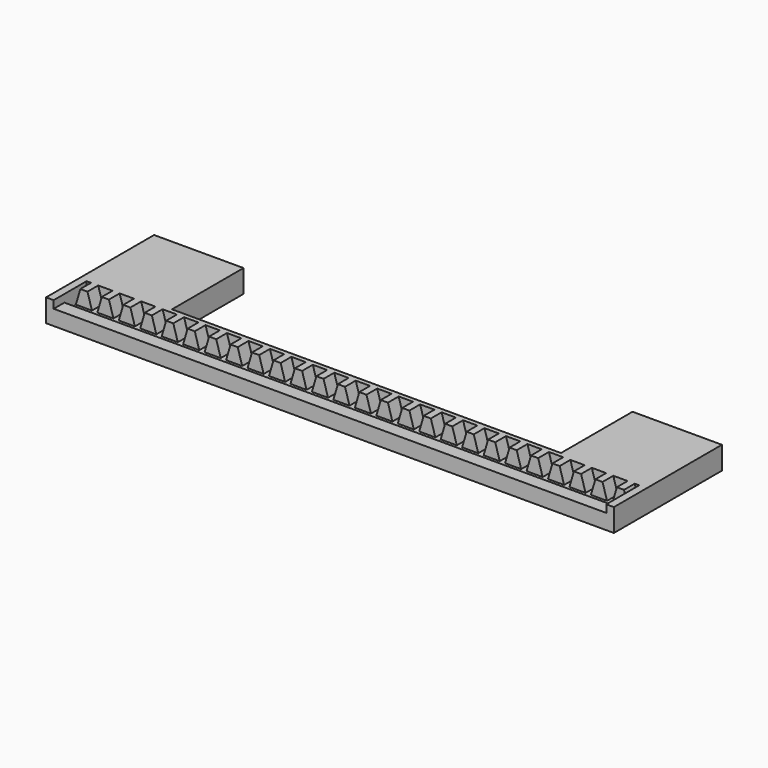
from build123d import *

# Parameters (mm, degrees)
F1_DEPTH  = 3.81
F5_DEPTH  = 156.972
F7_DEPTH  = 1.27
F9_W      = 12.954
F9_H      = 2.159
F9_H_2    = 4.318
F10_DEPTH = 2.159
F11_W     = 12.954
F11_H     = 4.318
F11_H_2   = 2.159
F12_DEPTH = 2.159
F13_W     = 25.4
F13_H     = 6.477
F14_DEPTH = 25.4


with BuildPart() as f1:
    # F0 (on Front) → F1 (new body)
    with BuildSketch(Plane.XZ):
        Polygon((-37.1748663006, 21.2125933835), (-38.4448663006, 16.8945933835), (-33.8728663006, 16.8945933835), (-35.1428663006, 21.2125933835), align=None)
        Polygon((-33.8728663006, 16.8945933835), (-38.4448663006, 16.8945933835), (-38.4448663006, 14.7355933835), (118.5271336994, 14.7355933835), (118.5271336994, 16.8945933835), (113.9551336994, 16.8945933835), (112.4311336994, 16.8945933835), (107.8591336994, 16.8945933835), (106.3351336994, 16.8945933835), (101.7631336994, 16.8945933835), (100.2391336994, 16.8945933835), (95.6671336994, 16.8945933835), (94.1431336994, 16.8945933835), (89.5711336994, 16.8945933835), (88.0471336994, 16.8945933835), (83.4751336994, 16.8945933835), (81.9511336994, 16.8945933835), (77.3791336994, 16.8945933835), (75.8551336994, 16.8945933835), (71.2831336994, 16.8945933835), (69.7591336994, 16.8945933835), (65.1871336994, 16.8945933835), (63.6631336994, 16.8945933835), (59.0911336994, 16.8945933835), (57.5671336994, 16.8945933835), (52.9951336994, 16.8945933835), (51.4711336994, 16.8945933835), (46.8991336994, 16.8945933835), (45.3751336994, 16.8945933835), (40.8031336994, 16.8945933835), (39.2791336994, 16.8945933835), (34.7071336994, 16.8945933835), (33.1831336994, 16.8945933835), (28.6111336994, 16.8945933835), (27.0871336994, 16.8945933835), (22.5151336994, 16.8945933835), (20.9911336994, 16.8945933835), (16.4191336994, 16.8945933835), (14.8951336994, 16.8945933835), (10.3231336994, 16.8945933835), (8.7991336994, 16.8945933835), (4.2271336994, 16.8945933835), (2.7031336994, 16.8945933835), (-1.8688663006, 16.8945933835), (-3.3928663006, 16.8945933835), (-7.9648663006, 16.8945933835), (-9.4888663006, 16.8945933835), (-14.0608663006, 16.8945933835), (-15.5848663006, 16.8945933835), (-20.1568663006, 16.8945933835), (-21.6808663006, 16.8945933835), (-26.2528663006, 16.8945933835), (-27.7768663006, 16.8945933835), (-32.3488663006, 16.8945933835), align=None)
        Polygon((-31.0788663006, 21.2125933835), (-32.3488663006, 16.8945933835), (-27.7768663006, 16.8945933835), (-29.0468663006, 21.2125933835), align=None)
        Polygon((113.9551336994, 16.8945933835), (118.5271336994, 16.8945933835), (117.2571336994, 21.2125933835), (115.2251336994, 21.2125933835), align=None)
        Polygon((-24.9828663006, 21.2125933835), (-26.2528663006, 16.8945933835), (-21.6808663006, 16.8945933835), (-22.9508663006, 21.2125933835), align=None)
        Polygon((107.8591336994, 16.8945933835), (112.4311336994, 16.8945933835), (111.1611336994, 21.2125933835), (109.1291336994, 21.2125933835), align=None)
        Polygon((-18.8868663006, 21.2125933835), (-20.1568663006, 16.8945933835), (-15.5848663006, 16.8945933835), (-16.8548663006, 21.2125933835), align=None)
        Polygon((101.7631336994, 16.8945933835), (106.3351336994, 16.8945933835), (105.0651336994, 21.2125933835), (103.0331336994, 21.2125933835), align=None)
        Polygon((-12.7908663006, 21.2125933835), (-14.0608663006, 16.8945933835), (-9.4888663006, 16.8945933835), (-10.7588663006, 21.2125933835), align=None)
        Polygon((95.6671336994, 16.8945933835), (100.2391336994, 16.8945933835), (98.9691336994, 21.2125933835), (96.9371336994, 21.2125933835), align=None)
        Polygon((-6.6948663006, 21.2125933835), (-7.9648663006, 16.8945933835), (-3.3928663006, 16.8945933835), (-4.6628663006, 21.2125933835), align=None)
        Polygon((89.5711336994, 16.8945933835), (94.1431336994, 16.8945933835), (92.8731336994, 21.2125933835), (90.8411336994, 21.2125933835), align=None)
        Polygon((-0.5988663006, 21.2125933835), (-1.8688663006, 16.8945933835), (2.7031336994, 16.8945933835), (1.4331336994, 21.2125933835), align=None)
        Polygon((83.4751336994, 16.8945933835), (88.0471336994, 16.8945933835), (86.7771336994, 21.2125933835), (84.7451336994, 21.2125933835), align=None)
        Polygon((5.4971336994, 21.2125933835), (4.2271336994, 16.8945933835), (8.7991336994, 16.8945933835), (7.5291336994, 21.2125933835), align=None)
        Polygon((77.3791336994, 16.8945933835), (81.9511336994, 16.8945933835), (80.6811336994, 21.2125933835), (78.6491336994, 21.2125933835), align=None)
        Polygon((11.5931336994, 21.2125933835), (10.3231336994, 16.8945933835), (14.8951336994, 16.8945933835), (13.6251336994, 21.2125933835), align=None)
        Polygon((71.2831336994, 16.8945933835), (75.8551336994, 16.8945933835), (74.5851336994, 21.2125933835), (72.5531336994, 21.2125933835), align=None)
        Polygon((17.6891336994, 21.2125933835), (16.4191336994, 16.8945933835), (20.9911336994, 16.8945933835), (19.7211336994, 21.2125933835), align=None)
        Polygon((65.1871336994, 16.8945933835), (69.7591336994, 16.8945933835), (68.4891336994, 21.2125933835), (66.4571336994, 21.2125933835), align=None)
        Polygon((23.7851336994, 21.2125933835), (22.5151336994, 16.8945933835), (27.0871336994, 16.8945933835), (25.8171336994, 21.2125933835), align=None)
        Polygon((59.0911336994, 16.8945933835), (63.6631336994, 16.8945933835), (62.3931336994, 21.2125933835), (60.3611336994, 21.2125933835), align=None)
        Polygon((29.8811336994, 21.2125933835), (28.6111336994, 16.8945933835), (33.1831336994, 16.8945933835), (31.9131336994, 21.2125933835), align=None)
        Polygon((52.9951336994, 16.8945933835), (57.5671336994, 16.8945933835), (56.2971336994, 21.2125933835), (54.2651336994, 21.2125933835), align=None)
        Polygon((35.9771336994, 21.2125933835), (34.7071336994, 16.8945933835), (39.2791336994, 16.8945933835), (38.0091336994, 21.2125933835), align=None)
        Polygon((46.8991336994, 16.8945933835), (51.4711336994, 16.8945933835), (50.2011336994, 21.2125933835), (48.1691336994, 21.2125933835), align=None)
        Polygon((42.0731336994, 21.2125933835), (40.8031336994, 16.8945933835), (45.3751336994, 16.8945933835), (44.1051336994, 21.2125933835), align=None)
    extrude(amount=F1_DEPTH)

    # F4 (on plane+point) → F5 (join, through all)
    with BuildSketch(Plane.YZ.offset(118.5271336994)):
        Polygon((-11.684, 14.7355933835), (-3.81, 14.7355933835), (-3.81, 16.8945933835), (-7.874, 16.8945933835), (-7.874, 19.0535933835), (-11.684, 19.0535933835), (-11.684, 16.8945933835), align=None)
    extrude(amount=-F5_DEPTH)

    # F6 (on face) → F7 (join)
    with BuildSketch(Plane(origin=(0, 0, 0), x_dir=(-1, 0, 0), z_dir=(0, 1, 0))):
        Polygon((33.8728663006, 16.8945933835), (35.1428663006, 21.2125933835), (31.0788663006, 21.2125933835), (32.3488663006, 16.8945933835), align=None)
        Polygon((27.7768663006, 16.8945933835), (29.0468663006, 21.2125933835), (24.9828663006, 21.2125933835), (26.2528663006, 16.8945933835), align=None)
        Polygon((21.6808663006, 16.8945933835), (22.9508663006, 21.2125933835), (18.8868663006, 21.2125933835), (20.1568663006, 16.8945933835), align=None)
        Polygon((15.5848663006, 16.8945933835), (16.8548663006, 21.2125933835), (12.7908663006, 21.2125933835), (14.0608663006, 16.8945933835), align=None)
        Polygon((9.4888663006, 16.8945933835), (10.7588663006, 21.2125933835), (6.6948663006, 21.2125933835), (7.9648663006, 16.8945933835), align=None)
        Polygon((3.3928663006, 16.8945933835), (4.6628663006, 21.2125933835), (0.5988663006, 21.2125933835), (1.8688663006, 16.8945933835), align=None)
        Polygon((-2.7031336994, 16.8945933835), (-1.4331336994, 21.2125933835), (-5.4971336994, 21.2125933835), (-4.2271336994, 16.8945933835), align=None)
        Polygon((-8.7991336994, 16.8945933835), (-7.5291336994, 21.2125933835), (-11.5931336994, 21.2125933835), (-10.3231336994, 16.8945933835), align=None)
        Polygon((-14.8951336994, 16.8945933835), (-13.6251336994, 21.2125933835), (-17.6891336994, 21.2125933835), (-16.4191336994, 16.8945933835), align=None)
        Polygon((-20.9911336994, 16.8945933835), (-19.7211336994, 21.2125933835), (-23.7851336994, 21.2125933835), (-22.5151336994, 16.8945933835), align=None)
        Polygon((-27.0871336994, 16.8945933835), (-25.8171336994, 21.2125933835), (-29.8811336994, 21.2125933835), (-28.6111336994, 16.8945933835), align=None)
        Polygon((-118.5271336994, 14.7355933835), (38.4448663006, 14.7355933835), (38.4448663006, 16.8945933835), (37.1748663006, 21.2125933835), (35.1428663006, 21.2125933835), (33.8728663006, 16.8945933835), (32.3488663006, 16.8945933835), (31.0788663006, 21.2125933835), (29.0468663006, 21.2125933835), (27.7768663006, 16.8945933835), (26.2528663006, 16.8945933835), (24.9828663006, 21.2125933835), (22.9508663006, 21.2125933835), (21.6808663006, 16.8945933835), (20.1568663006, 16.8945933835), (18.8868663006, 21.2125933835), (16.8548663006, 21.2125933835), (15.5848663006, 16.8945933835), (14.0608663006, 16.8945933835), (12.7908663006, 21.2125933835), (10.7588663006, 21.2125933835), (9.4888663006, 16.8945933835), (7.9648663006, 16.8945933835), (6.6948663006, 21.2125933835), (4.6628663006, 21.2125933835), (3.3928663006, 16.8945933835), (1.8688663006, 16.8945933835), (0.5988663006, 21.2125933835), (-1.4331336994, 21.2125933835), (-2.7031336994, 16.8945933835), (-4.2271336994, 16.8945933835), (-5.4971336994, 21.2125933835), (-7.5291336994, 21.2125933835), (-8.7991336994, 16.8945933835), (-10.3231336994, 16.8945933835), (-11.5931336994, 21.2125933835), (-13.6251336994, 21.2125933835), (-14.8951336994, 16.8945933835), (-16.4191336994, 16.8945933835), (-17.6891336994, 21.2125933835), (-19.7211336994, 21.2125933835), (-20.9911336994, 16.8945933835), (-22.5151336994, 16.8945933835), (-23.7851336994, 21.2125933835), (-25.8171336994, 21.2125933835), (-27.0871336994, 16.8945933835), (-28.6111336994, 16.8945933835), (-29.8811336994, 21.2125933835), (-31.9131336994, 21.2125933835), (-33.1831336994, 16.8945933835), (-34.7071336994, 16.8945933835), (-35.9771336994, 21.2125933835), (-38.0091336994, 21.2125933835), (-39.2791336994, 16.8945933835), (-40.8031336994, 16.8945933835), (-42.0731336994, 21.2125933835), (-44.1051336994, 21.2125933835), (-45.3751336994, 16.8945933835), (-46.8991336994, 16.8945933835), (-48.1691336994, 21.2125933835), (-50.2011336994, 21.2125933835), (-51.4711336994, 16.8945933835), (-52.9951336994, 16.8945933835), (-54.2651336994, 21.2125933835), (-56.2971336994, 21.2125933835), (-57.5671336994, 16.8945933835), (-59.0911336994, 16.8945933835), (-60.3611336994, 21.2125933835), (-62.3931336994, 21.2125933835), (-63.6631336994, 16.8945933835), (-65.1871336994, 16.8945933835), (-66.4571336994, 21.2125933835), (-68.4891336994, 21.2125933835), (-69.7591336994, 16.8945933835), (-71.2831336994, 16.8945933835), (-72.5531336994, 21.2125933835), (-74.5851336994, 21.2125933835), (-75.8551336994, 16.8945933835), (-77.3791336994, 16.8945933835), (-78.6491336994, 21.2125933835), (-80.6811336994, 21.2125933835), (-81.9511336994, 16.8945933835), (-83.4751336994, 16.8945933835), (-84.7451336994, 21.2125933835), (-86.7771336994, 21.2125933835), (-88.0471336994, 16.8945933835), (-89.5711336994, 16.8945933835), (-90.8411336994, 21.2125933835), (-92.8731336994, 21.2125933835), (-94.1431336994, 16.8945933835), (-95.6671336994, 16.8945933835), (-96.9371336994, 21.2125933835), (-98.9691336994, 21.2125933835), (-100.2391336994, 16.8945933835), (-101.7631336994, 16.8945933835), (-103.0331336994, 21.2125933835), (-105.0651336994, 21.2125933835), (-106.3351336994, 16.8945933835), (-107.8591336994, 16.8945933835), (-109.1291336994, 21.2125933835), (-111.1611336994, 21.2125933835), (-112.4311336994, 16.8945933835), (-113.9551336994, 16.8945933835), (-115.2251336994, 21.2125933835), (-117.2571336994, 21.2125933835), (-118.5271336994, 16.8945933835), align=None)
        Polygon((-111.1611336994, 21.2125933835), (-115.2251336994, 21.2125933835), (-113.9551336994, 16.8945933835), (-112.4311336994, 16.8945933835), align=None)
        Polygon((-105.0651336994, 21.2125933835), (-109.1291336994, 21.2125933835), (-107.8591336994, 16.8945933835), (-106.3351336994, 16.8945933835), align=None)
        Polygon((-98.9691336994, 21.2125933835), (-103.0331336994, 21.2125933835), (-101.7631336994, 16.8945933835), (-100.2391336994, 16.8945933835), align=None)
        Polygon((-92.8731336994, 21.2125933835), (-96.9371336994, 21.2125933835), (-95.6671336994, 16.8945933835), (-94.1431336994, 16.8945933835), align=None)
        Polygon((-86.7771336994, 21.2125933835), (-90.8411336994, 21.2125933835), (-89.5711336994, 16.8945933835), (-88.0471336994, 16.8945933835), align=None)
        Polygon((-80.6811336994, 21.2125933835), (-84.7451336994, 21.2125933835), (-83.4751336994, 16.8945933835), (-81.9511336994, 16.8945933835), align=None)
        Polygon((-74.5851336994, 21.2125933835), (-78.6491336994, 21.2125933835), (-77.3791336994, 16.8945933835), (-75.8551336994, 16.8945933835), align=None)
        Polygon((-68.4891336994, 21.2125933835), (-72.5531336994, 21.2125933835), (-71.2831336994, 16.8945933835), (-69.7591336994, 16.8945933835), align=None)
        Polygon((-62.3931336994, 21.2125933835), (-66.4571336994, 21.2125933835), (-65.1871336994, 16.8945933835), (-63.6631336994, 16.8945933835), align=None)
        Polygon((-56.2971336994, 21.2125933835), (-60.3611336994, 21.2125933835), (-59.0911336994, 16.8945933835), (-57.5671336994, 16.8945933835), align=None)
        Polygon((-50.2011336994, 21.2125933835), (-54.2651336994, 21.2125933835), (-52.9951336994, 16.8945933835), (-51.4711336994, 16.8945933835), align=None)
        Polygon((-44.1051336994, 21.2125933835), (-48.1691336994, 21.2125933835), (-46.8991336994, 16.8945933835), (-45.3751336994, 16.8945933835), align=None)
        Polygon((-39.2791336994, 16.8945933835), (-38.0091336994, 21.2125933835), (-42.0731336994, 21.2125933835), (-40.8031336994, 16.8945933835), align=None)
        Polygon((-33.1831336994, 16.8945933835), (-31.9131336994, 21.2125933835), (-35.9771336994, 21.2125933835), (-34.7071336994, 16.8945933835), align=None)
        Polygon((-118.5271336994, 21.2125933835), (-118.5271336994, 16.8945933835), (-117.2571336994, 21.2125933835), align=None)
        Polygon((37.1748663006, 21.2125933835), (38.4448663006, 16.8945933835), (38.4448663006, 21.2125933835), align=None)
    extrude(amount=F7_DEPTH)

    # F9 (on face) → F10 (join)
    with BuildSketch(Plane.YZ.offset(118.5271336994)):
        with Locations((-5.207, 15.8150933835)):
            Rectangle(F9_W, F9_H)
        with Locations((-5.207, 19.0535933835)):
            Rectangle(F9_W, F9_H_2)
    extrude(amount=F10_DEPTH)

    # F11 (on face) → F12 (join)
    with BuildSketch(Plane(origin=(-38.4448663006, 0, 0), x_dir=(0, -1, 0), z_dir=(-1, 0, 0))):
        with Locations((5.207, 19.0535933835)):
            Rectangle(F11_W, F11_H)
        with Locations((5.207, 15.8150933835)):
            Rectangle(F11_W, F11_H_2)
    extrude(amount=F12_DEPTH)

    # F13 (on face) → F14 (join)
    with BuildSketch(Plane(origin=(0, 1.27, 0), x_dir=(-1, 0, 0), z_dir=(0, 1, 0))):
        with Locations((27.9038663006, 17.9740933835)):
            Rectangle(F13_W, F13_H)
        with Locations((-107.9861336994, 17.9740933835)):
            Rectangle(F13_W, F13_H)
    extrude(amount=F14_DEPTH)


solid = f1.part
